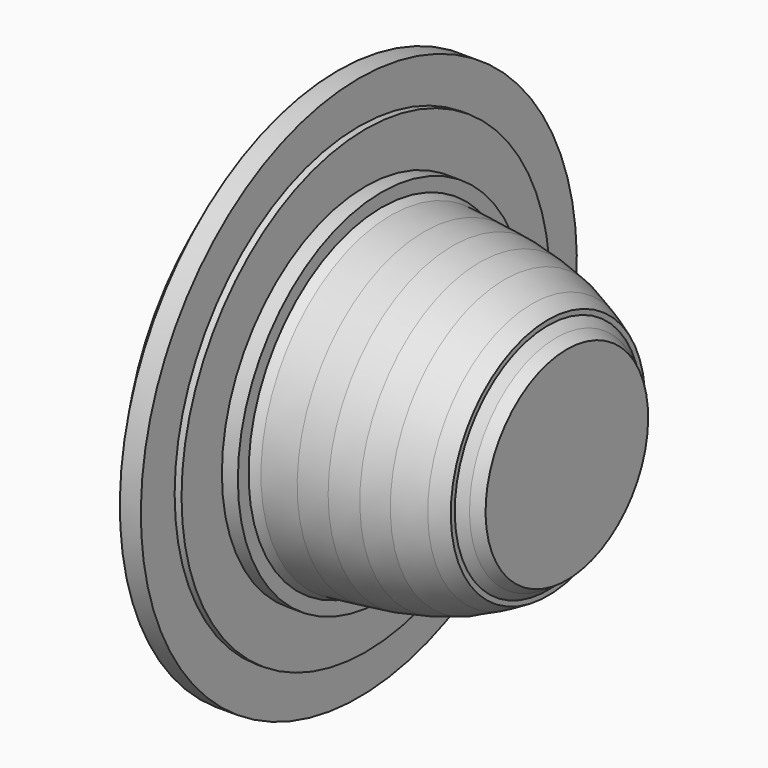
from build123d import *


with BuildPart() as f1:
    # F0 (on Front) → F1 (revolve)
    with BuildSketch(Plane.XZ):
        Polygon((-8.398269, 45.360386), (-8.398269, 60.85717), (-16.114403, 60.85717), (-27.100135, 45.084434), (-27.100135, -39.14283), (-8.398269, -39.14283), align=None)
        Polygon((-5.865373, 45.360386), (-8.398269, 45.360386), (-8.398269, -39.14283), (67.939676, -39.14283), (67.939676, -1.846066), (64.050458, 0.645466), (61.012004, 3.623152), (61.012004, 5.446225), (55.178173, 8.727755), (45.090504, 13.285438), (35.97514, 15.898509), (26.009008, 17.964657), (15.617494, 19.180039), (3.402906, 20.51696), (0, 21.94586), (0, 26.860023), (-5.865373, 26.860023), align=None)
    revolve(axis=Axis((29.770704, 0, -39.14283), (1, 0, 0)))


solid = f1.part
